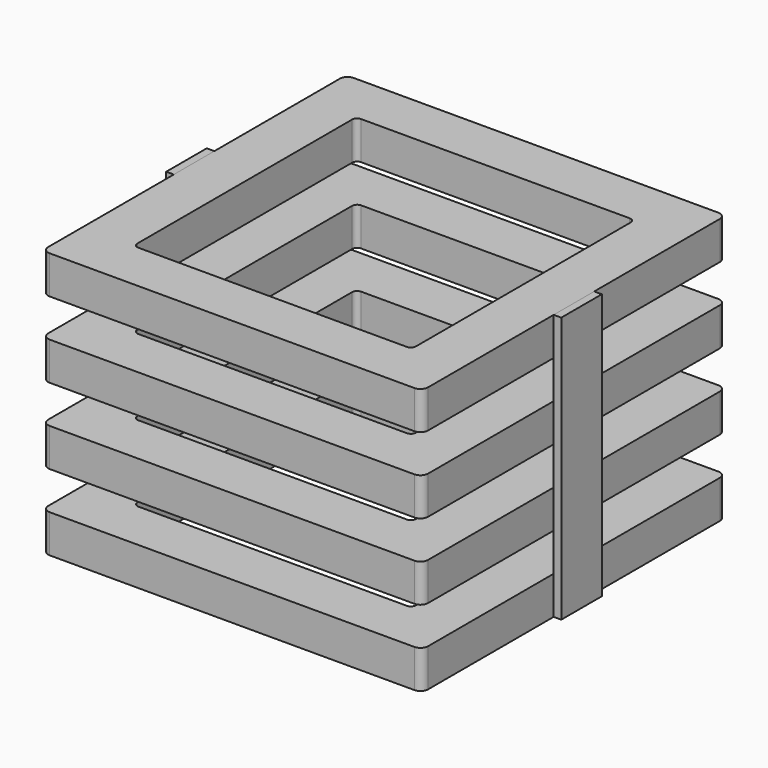
from build123d import *

# Parameters (mm, degrees)
F1_DEPTH = 15
F5_W     = 20
F5_H     = 105
F6_DEPTH = 3


with BuildPart() as f1:
    # F0 (on Top) → F1 (new body)
    with BuildSketch(Plane.XY):
        with BuildLine():
            Line((-72, -75), (72, -75))
            ThreePointArc((72, -75), (74.12132, -74.12132), (75, -72))
            Line((75, -72), (75, 72))
            ThreePointArc((75, 72), (74.12132, 74.12132), (72, 75))
            Line((72, 75), (-72, 75))
            ThreePointArc((-72, 75), (-74.12132, 74.12132), (-75, 72))
            Line((-75, 72), (-75, -72))
            ThreePointArc((-75, -72), (-74.12132, -74.12132), (-72, -75))
        make_face()
        with BuildLine():
            ThreePointArc((-53, -55), (-54.414214, -54.414214), (-55, -53))
            Line((-55, -53), (-55, 53))
            ThreePointArc((-55, 53), (-54.414214, 54.414214), (-53, 55))
            Line((-53, 55), (53, 55))
            ThreePointArc((53, 55), (54.414214, 54.414214), (55, 53))
            Line((55, 53), (55, -53))
            ThreePointArc((55, -53), (54.414214, -54.414214), (53, -55))
            Line((53, -55), (-53, -55))
        make_face(mode=Mode.SUBTRACT)
    extrude(amount=F1_DEPTH)


with BuildPart() as f2_1:
    # F2: copy of F1
    add(f1.part.moved(Location((0, 0, 30))))


with BuildPart() as f3_1:
    # F3: copy of F2_1
    add(f2_1.part.moved(Location((0, 0, 30))))


with BuildPart() as f4_1:
    # F4: copy of F3_1
    add(f3_1.part.moved(Location((0, 0, 30))))


with BuildPart() as f6:
    # F5 (on face) → F6 (new body)
    with BuildSketch(Plane.YZ.offset(75)):
        with Locations((0, 52.5)):
            Rectangle(F5_W, F5_H)
    extrude(amount=F6_DEPTH)


with BuildPart() as f7_1:
    # F7: copy of F6
    add(f6.part.moved(Location((-153, 0, 0))))


solid = Compound([f1.part, f2_1.part, f3_1.part, f4_1.part, f6.part, f7_1.part])
